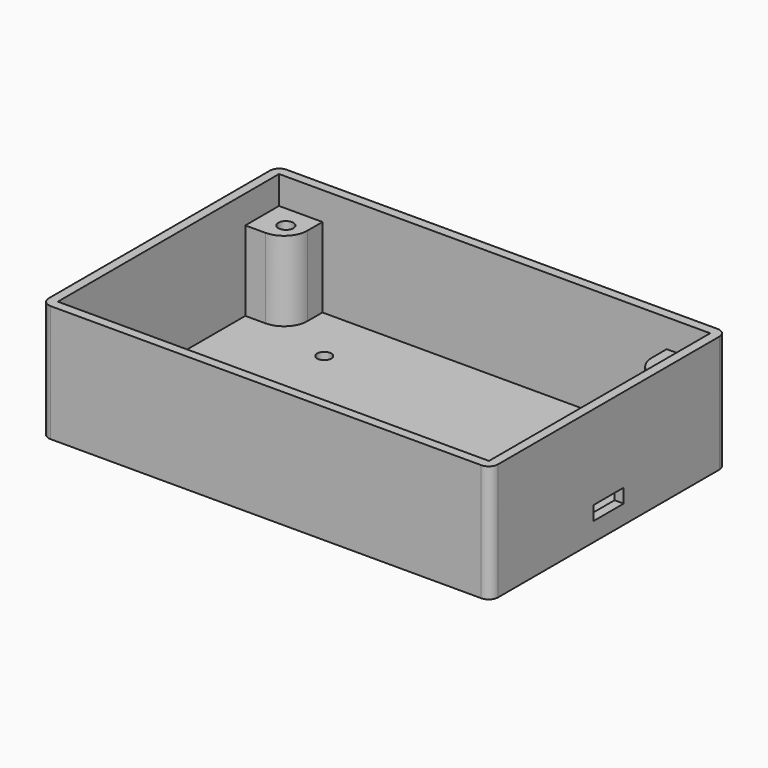
from build123d import *

# Parameters (mm, degrees)
F1_DEPTH  = 25
F2_R      = 2
F3_R      = 2
F0_R      = 1.5
F4_DEPTH  = 2
F0_W      = 9.26834
F0_H      = 8.993458
F0_R_2    = 2.5
F5_DEPTH  = 19
F6_R      = 5
F0_R_3    = 1.6
F7_DEPTH  = 19
F8_DEPTH  = 10
F10_DEPTH = 25


with BuildPart() as f1:
    # F0 (on Top) → F1 (new body)
    with BuildSketch(Plane.XY):
        Polygon((-47.95, 31.5), (-47.95, 0), (-47.95, -31.5), (0, -31.5), (47.95, -31.5), (47.95, 0), (47.95, 31.5), (0, 31.5), align=None)
        Polygon((-46, -20.506542), (-46, 0), (-46, 20.506542), (-46, 29.5), (-36.73166, 29.5), (0, 29.5), (36.73166, 29.5), (46, 29.5), (46, 20.506542), (46, 0), (46, -20.506542), (46, -29.5), (36.73166, -29.5), (0, -29.5), (-36.73166, -29.5), (-46, -29.5), align=None, mode=Mode.SUBTRACT)
    extrude(amount=F1_DEPTH)

    # F2
    f2_edges = [f1.edges().sort_by_distance(p)[0] for p in [
        (-47.95, -31.5, 12.5),
    ]]
    fillet(f2_edges, radius=F2_R)

    # F3
    f3_edges = [f1.edges().sort_by_distance(p)[0] for p in [
        (47.95, -31.5, 12.5),
        (47.95, 31.5, 12.5),
        (-47.95, 31.5, 12.5),
    ]]
    fillet(f3_edges, radius=F3_R)

    # F0 (on Top) → F4 (join)
    with BuildSketch(Plane.XY):
        Polygon((-46, 20.506542), (-46, 0), (-46, -20.506542), (-36.73166, -20.506542), (-36.73166, -29.5), (0, -29.5), (36.73166, -29.5), (36.73166, -20.506542), (46, -20.506542), (46, 0), (46, 20.506542), (36.73166, 20.506542), (36.73166, 29.5), (0, 29.5), (-36.73166, 29.5), (-36.73166, 20.506542), align=None)
        with Locations((-26.690211, -17.429141)):
            Circle(F0_R, mode=Mode.SUBTRACT)
        with Locations((26.690211, -17.429141)):
            Circle(F0_R, mode=Mode.SUBTRACT)
        with Locations((-26.690211, 17.429141)):
            Circle(F0_R, mode=Mode.SUBTRACT)
        with Locations((26.690211, 17.429141)):
            Circle(F0_R, mode=Mode.SUBTRACT)
    extrude(amount=F4_DEPTH)

    # F0 (on Top) → F5 (join)
    with BuildSketch(Plane.XY):
        with Locations((-41.36583, 25.003271)):
            Rectangle(F0_W, F0_H)
        with Locations((-40.7, 24.7)):
            Circle(F0_R_2, mode=Mode.SUBTRACT)
        with Locations((41.36583, 25.003271)):
            Rectangle(F0_W, F0_H)
        with Locations((40.7, 24.7)):
            Circle(F0_R_2, mode=Mode.SUBTRACT)
        with Locations((41.36583, -25.003271)):
            Rectangle(F0_W, F0_H)
        with Locations((40.7, -24.7)):
            Circle(F0_R_2, mode=Mode.SUBTRACT)
        with Locations((-41.36583, -25.003271)):
            Rectangle(F0_W, F0_H)
        with Locations((-40.7, -24.7)):
            Circle(F0_R_2, mode=Mode.SUBTRACT)
    extrude(amount=F5_DEPTH)

    # F6
    f6_edges = [f1.edges().sort_by_distance(p)[0] for p in [
        (-36.73166, 20.506542, 10.5),
        (36.73166, 20.506542, 10.5),
        (36.73166, -20.506542, 10.5),
        (-36.73166, -20.506542, 10.5),
    ]]
    fillet(f6_edges, radius=F6_R)

    # F0 (on Top) → F7 (join)
    with BuildSketch(Plane.XY):
        with Locations((-40.7, 24.7)):
            Circle(F0_R_2)
        with Locations((-40.7, 24.7)):
            Circle(F0_R_3, mode=Mode.SUBTRACT)
        with Locations((40.7, 24.7)):
            Circle(F0_R_2)
        with Locations((40.7, 24.7)):
            Circle(F0_R_3, mode=Mode.SUBTRACT)
        with Locations((40.7, -24.7)):
            Circle(F0_R_2)
        with Locations((40.7, -24.7)):
            Circle(F0_R_3, mode=Mode.SUBTRACT)
        with Locations((-40.7, -24.7)):
            Circle(F0_R_2)
        with Locations((-40.7, -24.7)):
            Circle(F0_R_3, mode=Mode.SUBTRACT)
    extrude(amount=F7_DEPTH)

    # F0 (on Top) → F8 (cut)
    with BuildSketch(Plane.XY):
        with Locations((-40.7, 24.7)):
            Circle(F0_R_2)
        with Locations((-40.7, 24.7)):
            Circle(F0_R_3, mode=Mode.SUBTRACT)
        with Locations((-40.7, -24.7)):
            Circle(F0_R_2)
        with Locations((-40.7, -24.7)):
            Circle(F0_R_3, mode=Mode.SUBTRACT)
        with Locations((40.7, -24.7)):
            Circle(F0_R_2)
        with Locations((40.7, -24.7)):
            Circle(F0_R_3, mode=Mode.SUBTRACT)
        with Locations((40.7, 24.7)):
            Circle(F0_R_2)
        with Locations((40.7, 24.7)):
            Circle(F0_R_3, mode=Mode.SUBTRACT)
    extrude(amount=F8_DEPTH, mode=Mode.SUBTRACT)

    # F9 (on face) → F10 (cut)
    with BuildSketch(Plane.YZ.offset(47.95)):
        Polygon((-4, 4), (0, 4), (4, 4), (4, 7), (0, 7), (-4, 7), align=None)
    extrude(amount=-F10_DEPTH, mode=Mode.SUBTRACT)


solid = f1.part
